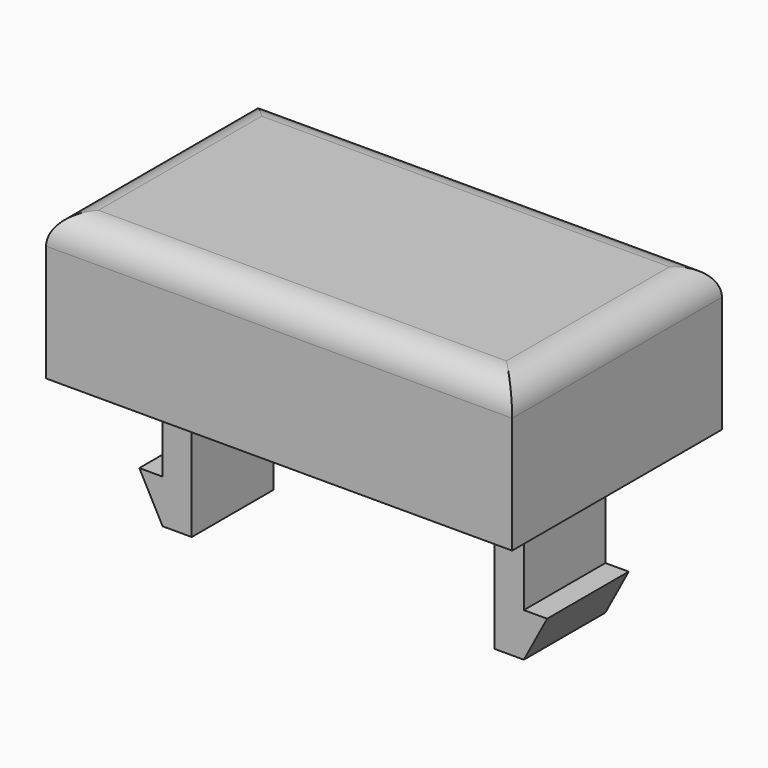
from build123d import *

# Parameters (mm, degrees)
SKETCH036_W     = 16
SKETCH036_H     = 9
PAD021_DEPTH    = 5
SKETCH037_W     = 14.4
SKETCH037_H     = 7.4
POCKET013_DEPTH = 4
SKETCH038_W     = 1
SKETCH038_H     = 3.5
PAD022_DEPTH    = 9
PAD023_DEPTH    = 3.5
SKETCH041_R     = 1
PAD025_DEPTH    = 3.4
FILLET002_R     = 1
FILLET007_R     = 0.7
FILLET011_R     = 0.8


with BuildPart() as part:
    # Sketch036 → Pad021 (new body)
    with BuildSketch(Plane.XY):
        Rectangle(SKETCH036_W, SKETCH036_H)
    extrude(amount=PAD021_DEPTH)

    # Sketch037 (on Face5 of Pad021) → Pocket013 (cut)
    with BuildSketch(Plane(origin=(0, 0, 0), x_dir=(1, 0, 0), z_dir=(0, 0, -1))):
        Rectangle(SKETCH037_W, SKETCH037_H)
    extrude(amount=-POCKET013_DEPTH, mode=Mode.SUBTRACT)

    # Sketch038 (on Face11 of Pocket013) → Pad022 (join)
    with BuildSketch(Plane(origin=(0, 0, 4), x_dir=(1, 0, 0), z_dir=(0, 0, -1))):
        with Locations((-5.7, 0)):
            Rectangle(SKETCH038_W, SKETCH038_H)
        with Locations((5.7, 0)):
            Rectangle(SKETCH038_W, SKETCH038_H)
    extrude(amount=PAD022_DEPTH)

    # Sketch039 (on Face17 of Pad022) → Pad023 (join)
    with BuildSketch(Plane(origin=(0, 1.75, 0), x_dir=(-1, 0, 0), z_dir=(0, 1, 0))):
        Polygon((-6.2, -3.5), (-7, -3.5), (-6.2, -5), align=None)
        Polygon((6.2, -3.5), (7, -3.5), (6.2, -5), align=None)
    extrude(amount=-PAD023_DEPTH)

    # Sketch041 (on Face11 of Pad023) → Pad025 (join)
    with BuildSketch(Plane(origin=(0, 0, 4), x_dir=(1, 0, 0), z_dir=(0, 0, -1))):
        Circle(SKETCH041_R)
    extrude(amount=PAD025_DEPTH)

    # Fillet002
    fillet002_edges = [part.edges().sort_by_distance(p)[0] for p in [
        (0, 4.5, 5),
        (-8, 0, 5),
        (0, -4.5, 5),
        (8, 0, 5),
    ]]
    fillet(fillet002_edges, radius=FILLET002_R)

    # Fillet007
    fillet007_edges = [part.edges().sort_by_distance(p)[0] for p in [
        (-1, 0, 4),
    ]]
    fillet(fillet007_edges, radius=FILLET007_R)

    # Fillet011
    fillet011_edges = [part.edges().sort_by_distance(p)[0] for p in [
        (5.2, 0, 4),
        (5.7, 1.75, 4),
        (6.2, 0, 4),
        (5.7, -1.75, 4),
        (-5.7, -1.75, 4),
        (-6.2, 0, 4),
        (-5.2, 0, 4),
        (-5.7, 1.75, 4),
    ]]
    fillet(fillet011_edges, radius=FILLET011_R)


with BuildPart() as part_1:
    # Body008 placement: moved
    add(part.part.moved(Location((-33, -44, 15))))


with BuildPart() as part_2:
    # Clone003 placement: moved
    add(part_1.part.moved(Location((0, 0, 4))))


with BuildPart() as part_3:
    # Body012 placement: moved
    add(part_2.part.moved(Location((68, 0, -4))))


solid = part_3.part
